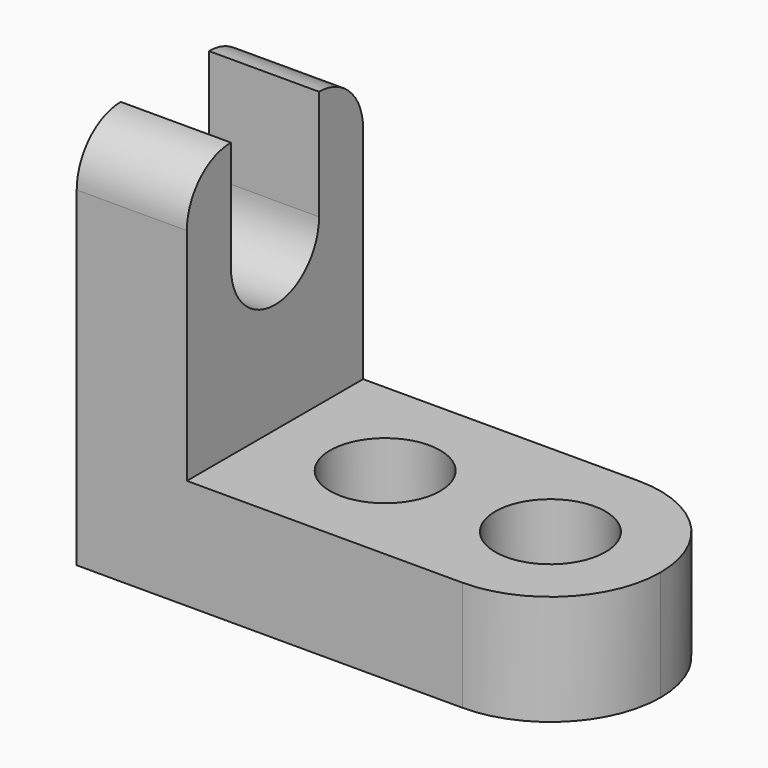
from build123d import *

# Parameters (mm, degrees)
F1_DEPTH = 25.4
F3_DEPTH = 25.4
F5_DEPTH = 25.4
F6_R     = 6.35
F7_DEPTH = 25.4


with BuildPart() as f1:
    # F0 (on Front) → F1 (new body)
    with BuildSketch(Plane.XZ):
        Polygon((-59.3707659776, 44.45), (-72.0707659776, 44.45), (-72.0707659776, 0), (-14.9207659776, 0), (-14.9207659776, 12.7), (-59.3707659776, 12.7), align=None)
    extrude(amount=F1_DEPTH)

    # F2 (on face) → F3 (cut)
    with BuildSketch(Plane.YZ.offset(-59.3707659776)):
        with BuildLine():
            ThreePointArc((-19.05, 31.75), (-12.7, 38.1), (-6.35, 31.75))
            Line((-6.35, 31.75), (-6.35, 44.45))
            Line((-6.35, 44.45), (-19.05, 44.45))
            Line((-19.05, 44.45), (-19.05, 31.75))
        make_face()
        with BuildLine():
            ThreePointArc((-19.05, 31.75), (-12.7, 25.4), (-6.35, 31.75))
            ThreePointArc((-6.35, 31.75), (-12.7, 38.1), (-19.05, 31.75))
        make_face()
    extrude(amount=-F3_DEPTH, mode=Mode.SUBTRACT)

    # F4 (on face) → F5 (cut)
    with BuildSketch(Plane.YZ.offset(-59.3707659776)):
        with BuildLine():
            ThreePointArc((-25.4, 38.1), (-23.5401280605, 42.5901280605), (-19.05, 44.45))
            Line((-19.05, 44.45), (-25.4, 44.45))
            Line((-25.4, 44.45), (-25.4, 38.1))
        make_face()
        with BuildLine():
            Line((0, 44.45), (-6.35, 44.45))
            ThreePointArc((-6.35, 44.45), (-1.8598719395, 42.5901280605), (0, 38.1))
            Line((0, 38.1), (0, 44.45))
        make_face()
    extrude(amount=-F5_DEPTH, mode=Mode.SUBTRACT)

    # F6 (on face) → F7 (cut)
    with BuildSketch(Plane.XY.offset(12.7)):
        with Locations((-46.6707659776, -12.7)):
            Circle(F6_R)
        with Locations((-27.6207659776, -12.7)):
            Circle(F6_R)
        with BuildLine():
            ThreePointArc((-27.6207659776, 0), (-18.6405098566, -3.7197438789), (-14.9207659776, -12.7))
            Line((-14.9207659776, -12.7), (-14.9207659776, 0))
            Line((-14.9207659776, 0), (-27.6207659776, 0))
        make_face()
        with BuildLine():
            ThreePointArc((-14.9207659776, -12.7), (-18.6405098566, -21.6802561211), (-27.6207659776, -25.4))
            Line((-27.6207659776, -25.4), (-14.9207659776, -25.4))
            Line((-14.9207659776, -25.4), (-14.9207659776, -12.7))
        make_face()
    extrude(amount=-F7_DEPTH, mode=Mode.SUBTRACT)


solid = f1.part
